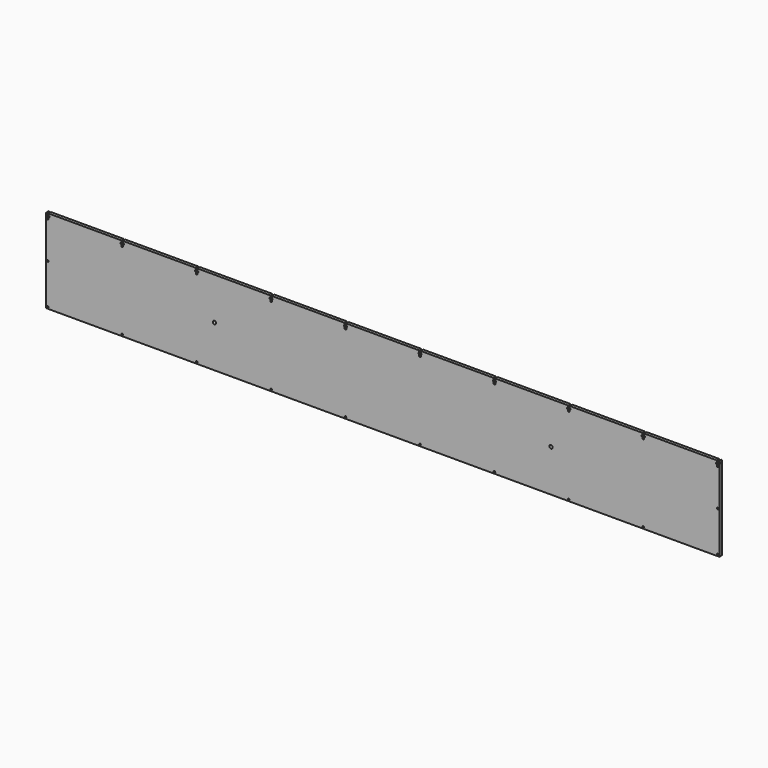
from build123d import *

# Parameters (mm, degrees)
F0_W     = 1.294
F0_H     = 4
F0_W_2   = 0.206
F0_H_2   = 2
F0_W_3   = 1.292
F0_W_4   = 0.208
F0_R     = 1.5
F0_R_2   = 3
F1_DEPTH = 5.588


with BuildPart() as f1:
    # F0 (on Front) → F1 (new body)
    with BuildSketch(Plane.XZ):
        with Locations((-608.953, 74.2)):
            Rectangle(F0_W, F0_H)
        with Locations((-609.703, 71.2)):
            Rectangle(F0_W_2, F0_H_2)
        with Locations((608.954, 74.2)):
            Rectangle(F0_W_3, F0_H)
        with Locations((609.704, 71.2)):
            Rectangle(F0_W_4, F0_H_2)
        Polygon((-609.6, -76.2), (609.6, -76.2), (609.6, 70.2), (608.308, 70.2), (608.308, 66.2), (606.808, 66.2), (605.308, 66.2), (605.308, 70.2), (603.808, 70.2), (603.808, 72.2), (605.308, 72.2), (605.308, 76.2), (473.462, 76.2), (473.462, 72.2), (474.962, 72.2), (474.962, 70.2), (473.462, 70.2), (473.462, 66.2), (471.962, 66.2), (470.462, 66.2), (470.462, 70.2), (468.962, 70.2), (468.962, 72.2), (470.462, 72.2), (470.462, 76.2), (338.616, 76.2), (338.616, 72.2), (340.116, 72.2), (340.116, 70.2), (338.616, 70.2), (338.616, 66.2), (337.116, 66.2), (335.616, 66.2), (335.616, 70.2), (334.116, 70.2), (334.116, 72.2), (335.616, 72.2), (335.616, 76.2), (203.77, 76.2), (203.77, 72.2), (205.27, 72.2), (205.27, 70.2), (203.77, 70.2), (203.77, 66.2), (202.27, 66.2), (200.77, 66.2), (200.77, 70.2), (199.27, 70.2), (199.27, 72.2), (200.77, 72.2), (200.77, 76.2), (68.924, 76.2), (68.924, 72.2), (70.424, 72.2), (70.424, 70.2), (68.924, 70.2), (68.924, 66.2), (67.424, 66.2), (65.924, 66.2), (65.924, 70.2), (64.424, 70.2), (64.424, 72.2), (65.924, 72.2), (65.924, 76.2), (-65.922, 76.2), (-65.922, 72.2), (-64.422, 72.2), (-64.422, 70.2), (-65.922, 70.2), (-65.922, 66.2), (-67.422, 66.2), (-68.922, 66.2), (-68.922, 70.2), (-70.422, 70.2), (-70.422, 72.2), (-68.922, 72.2), (-68.922, 76.2), (-200.768, 76.2), (-200.768, 72.2), (-199.268, 72.2), (-199.268, 70.2), (-200.768, 70.2), (-200.768, 66.2), (-202.268, 66.2), (-203.768, 66.2), (-203.768, 70.2), (-205.268, 70.2), (-205.268, 72.2), (-203.768, 72.2), (-203.768, 76.2), (-335.614, 76.2), (-335.614, 72.2), (-334.114, 72.2), (-334.114, 70.2), (-335.614, 70.2), (-335.614, 66.2), (-337.114, 66.2), (-338.614, 66.2), (-338.614, 70.2), (-340.114, 70.2), (-340.114, 72.2), (-338.614, 72.2), (-338.614, 76.2), (-470.46, 76.2), (-470.46, 72.2), (-468.96, 72.2), (-468.96, 70.2), (-470.46, 70.2), (-470.46, 66.2), (-471.96, 66.2), (-473.46, 66.2), (-473.46, 70.2), (-474.96, 70.2), (-474.96, 72.2), (-473.46, 72.2), (-473.46, 76.2), (-605.306, 76.2), (-605.306, 72.2), (-603.806, 72.2), (-603.806, 70.2), (-605.306, 70.2), (-605.306, 66.2), (-606.806, 66.2), (-608.306, 66.2), (-608.306, 70.2), (-609.6, 70.2), align=None)
        with Locations((-606.806, -73.406)):
            Circle(F0_R, mode=Mode.SUBTRACT)
        with Locations((-471.96, -73.406)):
            Circle(F0_R, mode=Mode.SUBTRACT)
        with Locations((-337.114, -73.406)):
            Circle(F0_R, mode=Mode.SUBTRACT)
        with Locations((-202.268, -73.406)):
            Circle(F0_R, mode=Mode.SUBTRACT)
        with Locations((-67.422, -73.406)):
            Circle(F0_R, mode=Mode.SUBTRACT)
        with Locations((67.424, -73.406)):
            Circle(F0_R, mode=Mode.SUBTRACT)
        with Locations((202.27, -73.406)):
            Circle(F0_R, mode=Mode.SUBTRACT)
        with Locations((337.116, -73.406)):
            Circle(F0_R, mode=Mode.SUBTRACT)
        with Locations((471.962, -73.406)):
            Circle(F0_R, mode=Mode.SUBTRACT)
        with Locations((606.808, -73.406)):
            Circle(F0_R, mode=Mode.SUBTRACT)
        with Locations((-606.806, 0)):
            Circle(F0_R, mode=Mode.SUBTRACT)
        with Locations((-304.8, 0)):
            Circle(F0_R_2, mode=Mode.SUBTRACT)
        with Locations((304.8, 0)):
            Circle(F0_R_2, mode=Mode.SUBTRACT)
        with Locations((606.806, 0)):
            Circle(F0_R, mode=Mode.SUBTRACT)
    extrude(amount=F1_DEPTH)


solid = f1.part
